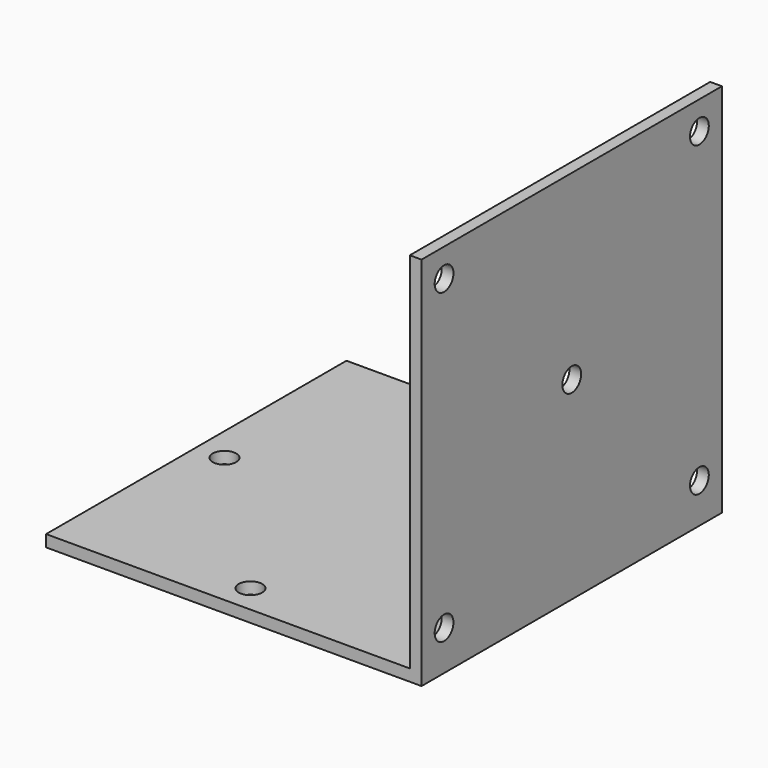
from build123d import *

# Parameters (mm, degrees)
F1_DEPTH = 40
F2_R     = 2.5
F3_DEPTH = 25
F4_R     = 2.5
F5_DEPTH = 25


with BuildPart() as f1:
    # F0 (on Front) → F1 (new body, symmetric)
    with BuildSketch(Plane.XZ):
        Polygon((-80, 2.5), (-80, 0), (0, 0), (0, 80), (-2.5, 80), (-2.5, 2.5), align=None)
    extrude(amount=F1_DEPTH, both=True)

    # F2 (on face) → F3 (cut)
    with BuildSketch(Plane(origin=(-2.5, 0, 0), x_dir=(0, -1, 0), z_dir=(-1, 0, 0))):
        with Locations((0, 41.25)):
            Circle(F2_R)
        with Locations((-34, 8.5)):
            Circle(F2_R)
        with Locations((-34, 74)):
            Circle(F2_R)
        with Locations((34, 74)):
            Circle(F2_R)
        with Locations((34, 8.5)):
            Circle(F2_R)
    extrude(amount=-F3_DEPTH, mode=Mode.SUBTRACT)

    # F4 (on face) → F5 (cut)
    with BuildSketch(Plane.XY.offset(2.5)):
        with Locations((-74, 0)):
            Circle(F4_R)
        with Locations((-41.25, 34)):
            Circle(F4_R)
        with Locations((-41.25, -34)):
            Circle(F4_R)
        with Locations((-8.5, 0)):
            Circle(F4_R)
    extrude(amount=-F5_DEPTH, mode=Mode.SUBTRACT)


solid = f1.part
